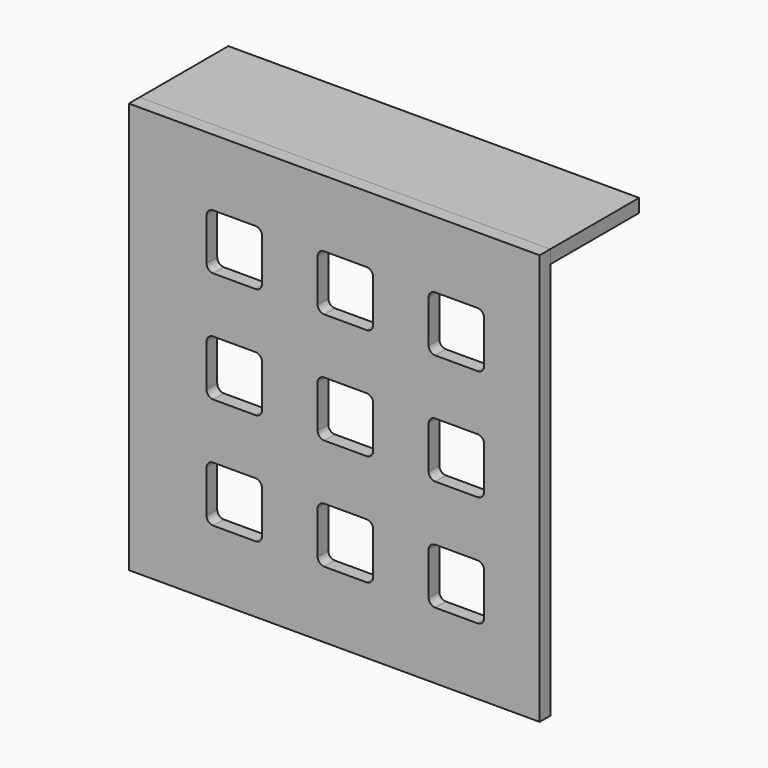
from build123d import *

# Parameters (mm, degrees)
F0_W     = 185
F0_H     = 185
F1_DEPTH = 6
F3_DEPTH = 25
F4_W     = 50
F4_H     = 6
F5_DEPTH = 185


with BuildPart() as f1:
    # F0 (on Front) → F1 (new body)
    with BuildSketch(Plane.XZ):
        with Locations((-92.5, -92.5)):
            Rectangle(F0_W, F0_H)
    extrude(amount=F1_DEPTH)

    # F2 (on face) → F3 (cut)
    with BuildSketch(Plane.XZ.offset(6)):
        with BuildLine():
            ThreePointArc((-125, -33), (-125.87868, -30.87868), (-128, -30))
            Line((-128, -30), (-147, -30))
            ThreePointArc((-147, -30), (-149.12132, -30.87868), (-150, -33))
            Line((-150, -33), (-150, -52))
            ThreePointArc((-150, -52), (-149.12132, -54.12132), (-147, -55))
            Line((-147, -55), (-128, -55))
            ThreePointArc((-128, -55), (-125.87868, -54.12132), (-125, -52))
            Line((-125, -52), (-125, -33))
        make_face()
        with BuildLine():
            ThreePointArc((-75, -33), (-75.87868, -30.87868), (-78, -30))
            Line((-78, -30), (-97, -30))
            ThreePointArc((-97, -30), (-99.12132, -30.87868), (-100, -33))
            Line((-100, -33), (-100, -52))
            ThreePointArc((-100, -52), (-99.12132, -54.12132), (-97, -55))
            Line((-97, -55), (-78, -55))
            ThreePointArc((-78, -55), (-75.87868, -54.12132), (-75, -52))
            Line((-75, -52), (-75, -33))
        make_face()
        with BuildLine():
            Line((-25, -52), (-25, -33))
            ThreePointArc((-25, -33), (-25.87868, -30.87868), (-28, -30))
            Line((-28, -30), (-47, -30))
            ThreePointArc((-47, -30), (-49.12132, -30.87868), (-50, -33))
            Line((-50, -33), (-50, -52))
            ThreePointArc((-50, -52), (-49.12132, -54.12132), (-47, -55))
            Line((-47, -55), (-28, -55))
            ThreePointArc((-28, -55), (-25.87868, -54.12132), (-25, -52))
        make_face()
        with BuildLine():
            Line((-25, -102), (-25, -83))
            ThreePointArc((-25, -83), (-25.87868, -80.87868), (-28, -80))
            Line((-28, -80), (-47, -80))
            ThreePointArc((-47, -80), (-49.12132, -80.87868), (-50, -83))
            Line((-50, -83), (-50, -102))
            ThreePointArc((-50, -102), (-49.12132, -104.12132), (-47, -105))
            Line((-47, -105), (-28, -105))
            ThreePointArc((-28, -105), (-25.87868, -104.12132), (-25, -102))
        make_face()
        with BuildLine():
            Line((-97, -105), (-78, -105))
            ThreePointArc((-78, -105), (-75.87868, -104.12132), (-75, -102))
            Line((-75, -102), (-75, -83))
            ThreePointArc((-75, -83), (-75.87868, -80.87868), (-78, -80))
            Line((-78, -80), (-97, -80))
            ThreePointArc((-97, -80), (-99.12132, -80.87868), (-100, -83))
            Line((-100, -83), (-100, -102))
            ThreePointArc((-100, -102), (-99.12132, -104.12132), (-97, -105))
        make_face()
        with BuildLine():
            Line((-147, -105), (-128, -105))
            ThreePointArc((-128, -105), (-125.87868, -104.12132), (-125, -102))
            Line((-125, -102), (-125, -83))
            ThreePointArc((-125, -83), (-125.87868, -80.87868), (-128, -80))
            Line((-128, -80), (-147, -80))
            ThreePointArc((-147, -80), (-149.12132, -80.87868), (-150, -83))
            Line((-150, -83), (-150, -102))
            ThreePointArc((-150, -102), (-149.12132, -104.12132), (-147, -105))
        make_face()
        with BuildLine():
            ThreePointArc((-150, -152), (-149.12132, -154.12132), (-147, -155))
            Line((-147, -155), (-128, -155))
            ThreePointArc((-128, -155), (-125.87868, -154.12132), (-125, -152))
            Line((-125, -152), (-125, -133))
            ThreePointArc((-125, -133), (-125.87868, -130.87868), (-128, -130))
            Line((-128, -130), (-147, -130))
            ThreePointArc((-147, -130), (-149.12132, -130.87868), (-150, -133))
            Line((-150, -133), (-150, -152))
        make_face()
        with BuildLine():
            ThreePointArc((-100, -152), (-99.12132, -154.12132), (-97, -155))
            Line((-97, -155), (-78, -155))
            ThreePointArc((-78, -155), (-75.87868, -154.12132), (-75, -152))
            Line((-75, -152), (-75, -133))
            ThreePointArc((-75, -133), (-75.87868, -130.87868), (-78, -130))
            Line((-78, -130), (-97, -130))
            ThreePointArc((-97, -130), (-99.12132, -130.87868), (-100, -133))
            Line((-100, -133), (-100, -152))
        make_face()
        with BuildLine():
            Line((-25, -152), (-25, -133))
            ThreePointArc((-25, -133), (-25.87868, -130.87868), (-28, -130))
            Line((-28, -130), (-47, -130))
            ThreePointArc((-47, -130), (-49.12132, -130.87868), (-50, -133))
            Line((-50, -133), (-50, -152))
            ThreePointArc((-50, -152), (-49.12132, -154.12132), (-47, -155))
            Line((-47, -155), (-28, -155))
            ThreePointArc((-28, -155), (-25.87868, -154.12132), (-25, -152))
        make_face()
    extrude(amount=-F3_DEPTH, mode=Mode.SUBTRACT)


with BuildPart() as f5:
    # F4 (on Right) → F5 (new body)
    with BuildSketch(Plane.YZ):
        with Locations((25, -3)):
            Rectangle(F4_W, F4_H)
    extrude(amount=-F5_DEPTH)


solid = Compound([f1.part, f5.part])
